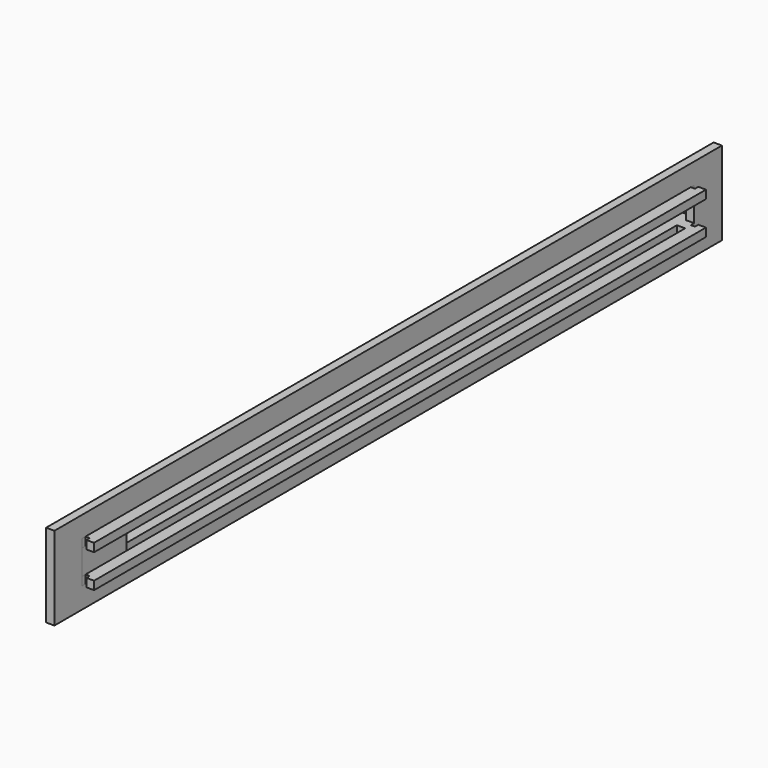
from build123d import *

# Parameters (mm, degrees)
F1_W     = 600
F1_H     = 60
F1_W_2   = 550
F1_H_2   = 30
F2_DEPTH = 6
F4_W     = 40
F4_H     = 30
F5_DEPTH = 6
F6_W     = 6
F6_H     = 534
F7_DEPTH = 6


with BuildPart() as f2:
    # F1 (on Right) → F2 (new body)
    with BuildSketch(Plane.YZ):
        with Locations((2.6347562671, -35.0261480522)):
            Rectangle(F1_W, F1_H)
        with Locations((2.6347562671, -35.0261480522)):
            Rectangle(F1_W_2, F1_H_2, mode=Mode.SUBTRACT)
    extrude(amount=F2_DEPTH)


with BuildPart() as f5:
    # F4 (on Right) → F5 (new body)
    with BuildSketch(Plane.YZ):
        with Locations((-252.3652437329, -35.0261480522)):
            Rectangle(F4_W, F4_H)
    extrude(amount=F5_DEPTH)


with BuildPart() as f7:
    # F6 (on face) → F7 (new body)
    with BuildSketch(Plane.XY.offset(-50.0261480522)):
        Polygon((6, 277.6347562671), (0, 277.6347562671), (0, 283.6347562671), (-8, 283.6347562671), (-8, -272.3652437329), (-8, -278.3652437329), (0, -278.3652437329), (0, -272.3652437329), (6, -272.3652437329), (6, -269.3652437329), (9, -269.3652437329), (9, -272.3652437329), (14.5, -272.3652437329), (14.5, 277.6347562671), (9, 277.6347562671), (9, 274.6347562671), (6, 274.6347562671), align=None)
        with Locations((3, 2.6347562671)):
            Rectangle(F6_W, F6_H, mode=Mode.SUBTRACT)
    extrude(amount=F7_DEPTH)


with BuildPart() as f8_1:
    # F8: copy of F7
    add(f7.part.moved(Location((0, 0, 24))))


solid = Compound([f2.part, f5.part, f7.part, f8_1.part])
